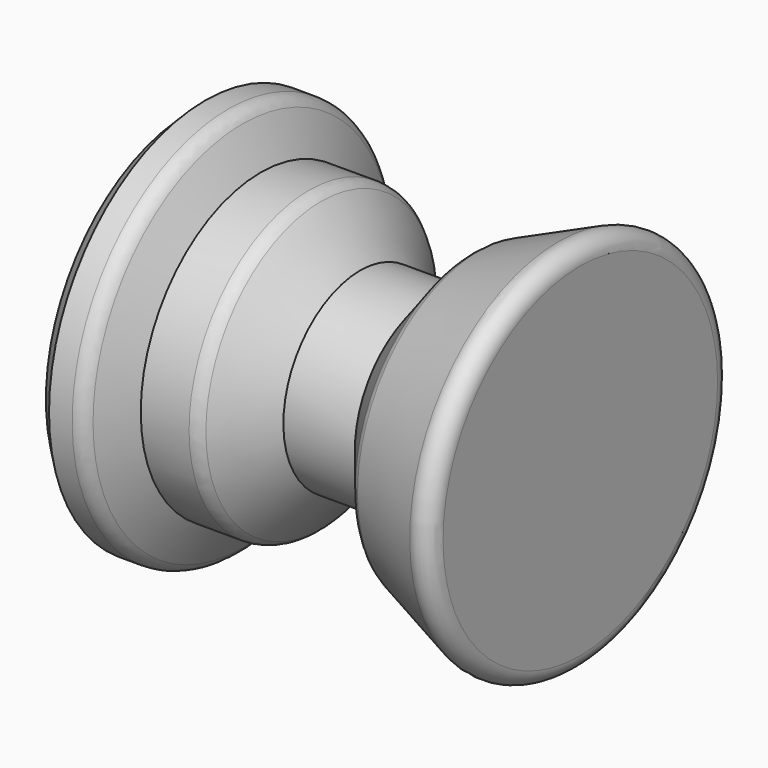
from build123d import *

# Parameters (mm, degrees)
F2_R    = 0.508
F3_SIZE = 0.508


with BuildPart() as f1:
    # F0 (on Front) → F1 (revolve)
    with BuildSketch(Plane.XZ):
        Polygon((-12.7, 0), (0, 0), (0, 6.35), (-3.416564, 4.876191), (-4.833689, 3.118957), (-7.157773, 3.118957), (-8.574897, 4.876191), (-10.388815, 4.876191), (-11.125719, 6.35), (-12.7, 6.35), align=None)
    revolve(axis=Axis((-6.35, 0, 0), (-1, 0, 0)))

    # F2
    f2_edges = [f1.edges().sort_by_distance(p)[0] for p in [
        (0, 0, -6.35),
        (-3.416564, 0, -4.876191),
        (-8.574897, 0, -4.876191),
        (-11.125719, 0, -6.35),
    ]]
    fillet(f2_edges, radius=F2_R)

    # F3
    f3_edges = [f1.edges().sort_by_distance(p)[0] for p in [
        (-12.7, 0, -6.35),
    ]]
    chamfer(f3_edges, length=F3_SIZE)


solid = f1.part
